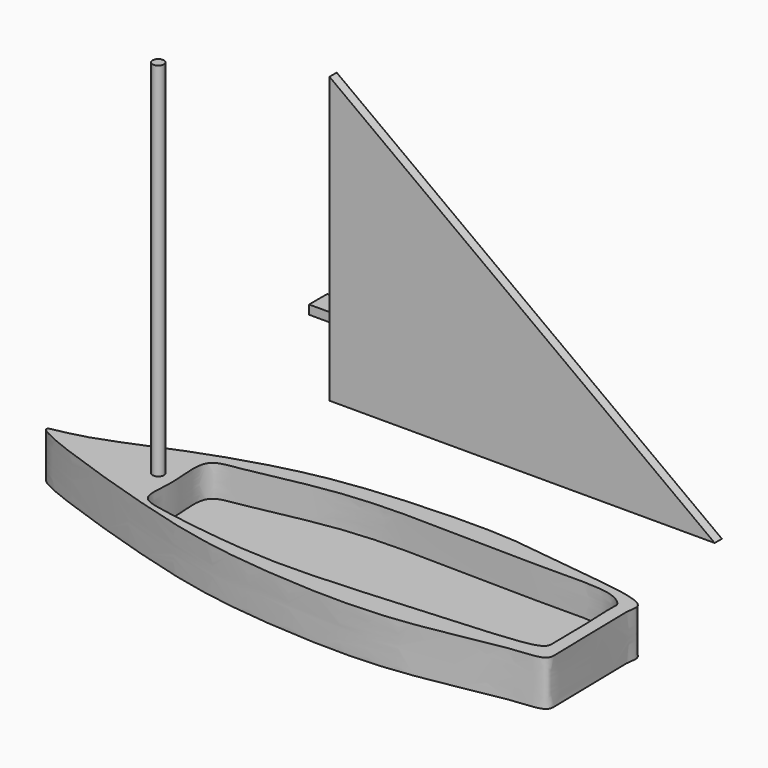
from build123d import *

# Parameters (mm, degrees)
F2_DEPTH  = 10
F3_DEPTH  = 3
F4_R      = 1.232194947
F5_DEPTH  = 80
F7_DEPTH  = 2
F10_DEPTH = 2
F12_DEPTH = 2


with BuildPart() as f2:
    # F1 (on face) → F2 (new body)
    with BuildSketch(Plane.XY):
        with BuildLine():
            add(Edge.make_bspline(
                [(62.1734783053, -24.6336851269), (60.1814875918, -22.6723282741), (42.4579282442, -21.2233156877), (28.5841804691, -18.4176145714), (2.3159366191, -19.4715923132), (-14.5756311488, -21.9058984736), (-34.4911444794, -28.0414334991), (-52.0284082974, -36.3253964756), (-64.0503454592, -36.8404965588), (-29.4325707628, -48.6072410245), (-9.917446658, -53.5814177918), (9.7818172544, -55.6827404088), (33.0457819486, -56.2475451445), (54.7214056491, -50.8821007389), (63.291142511, -50.8824632753), (62.6087066782, -46.7488834829), (62.8453866437, -42.6159422583), (62.5944247472, -37.2513629838), (62.5572626458, -32.1686032502), (62.229380668, -27.6348713286), (62.971001028, -25.4189431338), (62.1734783053, -24.6336851269)],
                knots=[0, 0, 0, 0, 0.0626009592, 0.1230508144, 0.1968419234, 0.2586706746, 0.3262373635, 0.3932519783, 0.425207405, 0.5032567748, 0.5756786096, 0.6392674415, 0.7114947416, 0.7820750299, 0.819725522, 0.844978749, 0.8755876123, 0.9097834163, 0.9434140272, 0.9749367871, 1, 1, 1, 1], degree=3))
        make_face()
        with BuildLine():
            add(Edge.make_bspline(
                [(-28.8736149669, -29.9439262599), (-29.8167754969, -31.5695332164), (-29.0927765799, -37.3102807584), (-29.1183847678, -41.1067880995), (-29.7778417223, -46.9732424847), (-23.7179994754, -48.5189020337), (-3.5015428847, -51.6193039615), (14.7873125439, -51.4030652606), (41.461491678, -49.2157435494), (59.53490368, -48.1778532466), (60.0047306305, -45.2088000616), (59.6618934913, -40.893487685), (59.8807690343, -36.2277546689), (59.3158597551, -28.4275907291), (59.7267227045, -26.6883915485), (55.7853567038, -23.6203760913), (42.0326965552, -24.2290888362), (15.4247498641, -23.4035419471), (-4.082765923, -23.5375288001), (-22.4584375684, -28.0015823112), (-28.0063244266, -28.4490868442), (-28.8736149669, -29.9439262599)],
                knots=[0, 0, 0, 0, 0.0449064757, 0.0805102216, 0.1171745239, 0.1548579718, 0.2304100536, 0.3050703052, 0.3951230226, 0.4627026, 0.4861375632, 0.5202023347, 0.558994858, 0.6055149885, 0.6264923126, 0.6588412953, 0.7207452021, 0.808774853, 0.8858113664, 0.9587059039, 1, 1, 1, 1], degree=3))
        make_face(mode=Mode.SUBTRACT)
    extrude(amount=F2_DEPTH)

    # F1 (on face) + F0 (on Top) → F3 (join)
    with BuildSketch(Plane.XY):
        with BuildLine():
            add(Edge.make_bspline(
                [(-28.8736149669, -29.9439262599), (-29.8167754969, -31.5695332164), (-29.0927765799, -37.3102807584), (-29.1183847678, -41.1067880995), (-29.7778417223, -46.9732424847), (-23.7179994754, -48.5189020337), (-3.5015428847, -51.6193039615), (14.7873125439, -51.4030652606), (41.461491678, -49.2157435494), (59.53490368, -48.1778532466), (60.0047306305, -45.2088000616), (59.6618934913, -40.893487685), (59.8807690343, -36.2277546689), (59.3158597551, -28.4275907291), (59.7267227045, -26.6883915485), (55.7853567038, -23.6203760913), (42.0326965552, -24.2290888362), (15.4247498641, -23.4035419471), (-4.082765923, -23.5375288001), (-22.4584375684, -28.0015823112), (-28.0063244266, -28.4490868442), (-28.8736149669, -29.9439262599)],
                knots=[0, 0, 0, 0, 0.0449064757, 0.0805102216, 0.1171745239, 0.1548579718, 0.2304100536, 0.3050703052, 0.3951230226, 0.4627026, 0.4861375632, 0.5202023347, 0.558994858, 0.6055149885, 0.6264923126, 0.6588412953, 0.7207452021, 0.808774853, 0.8858113664, 0.9587059039, 1, 1, 1, 1], degree=3))
        make_face()
    with BuildSketch(Plane.XY):
        with BuildLine():
            add(Edge.make_bspline(
                [(62.1734783053, -24.6336851269), (60.1814875918, -22.6723282741), (42.4579282442, -21.2233156877), (28.5841804691, -18.4176145714), (2.3159366191, -19.4715923132), (-14.5756311488, -21.9058984736), (-34.4911444794, -28.0414334991), (-52.0284082974, -36.3253964756), (-64.0503454592, -36.8404965588), (-29.4325707628, -48.6072410245), (-9.917446658, -53.5814177918), (9.7818172544, -55.6827404088), (33.0457819486, -56.2475451445), (54.7214056491, -50.8821007389), (63.291142511, -50.8824632753), (62.6087066782, -46.7488834829), (62.8453866437, -42.6159422583), (62.5944247472, -37.2513629838), (62.5572626458, -32.1686032502), (62.229380668, -27.6348713286), (62.971001028, -25.4189431338), (62.1734783053, -24.6336851269)],
                knots=[0, 0, 0, 0, 0.0626009592, 0.1230508144, 0.1968419234, 0.2586706746, 0.3262373635, 0.3932519783, 0.425207405, 0.5032567748, 0.5756786096, 0.6392674415, 0.7114947416, 0.7820750299, 0.819725522, 0.844978749, 0.8755876123, 0.9097834163, 0.9434140272, 0.9749367871, 1, 1, 1, 1], degree=3))
        make_face()
    extrude(amount=F3_DEPTH)

    # F4 (on face) → F5 (join)
    with BuildSketch(Plane.XY.offset(10)):
        with Locations((-33.119738102, -38.0715839565)):
            Circle(F4_R)
    extrude(amount=F5_DEPTH)


with BuildPart() as f7:
    # F6 (on Top) → F7 (new body)
    with BuildSketch(Plane.XY):
        Polygon((-30.2884634584, 63.3727833629), (-30.2884634584, 0), (41.7825467885, 0), align=None)
    extrude(amount=F7_DEPTH)


with BuildPart() as f10:
    # F9 (on Front) → F10 (new body)
    with BuildSketch(Plane.XZ):
        Polygon((61.0826723278, 12.3813385144), (-24.1139903665, 75.4555985332), (-24.1139903665, 12.3813385144), align=None)
    extrude(amount=F10_DEPTH)


with BuildPart() as f12:
    # F11 (on Top) → F12 (new body)
    with BuildSketch(Plane.XY):
        Polygon((-43.6753034592, 39.470423013), (-61.8048869073, 44.53741014), (-61.8048869073, 39.470423013), align=None)
    extrude(amount=F12_DEPTH)


solid = Compound([f2.part, f10.part, f12.part])
